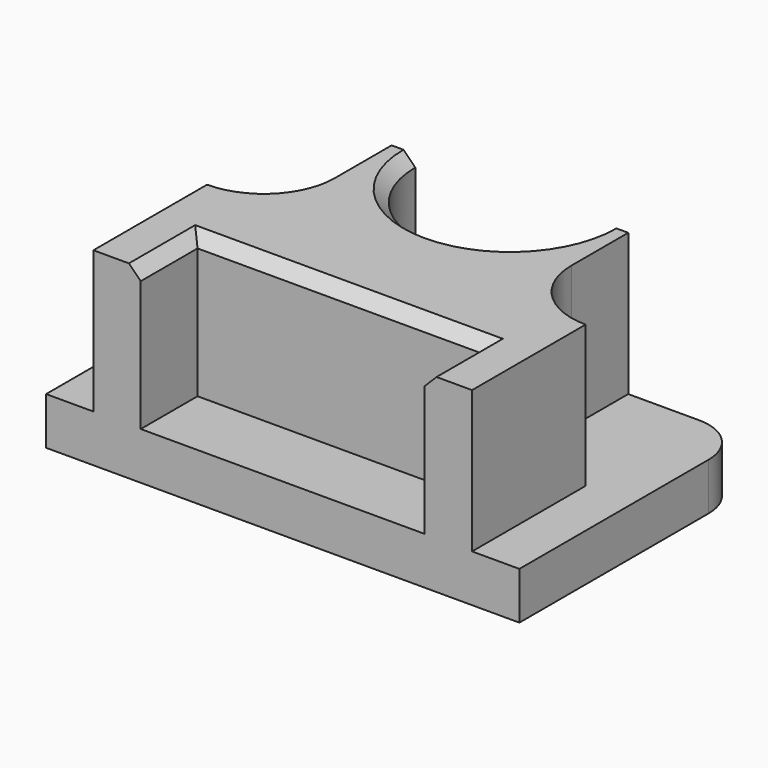
from build123d import *

# Parameters (mm, degrees)
F0_W     = 63.5
F0_H     = 38.1
F1_DEPTH = 6.35
F3_DEPTH = 19.05
F4_DEPTH = 25.4
F5_SIZE  = 1.5875
F7_DEPTH = 25.4
F9_DEPTH = 25.4


with BuildPart() as f1:
    # F0 (on Top) → F1 (new body)
    with BuildSketch(Plane.XY):
        with Locations((31.75, -19.05)):
            Rectangle(F0_W, F0_H)
    extrude(amount=F1_DEPTH)

    # F2 (on face) → F3 (join)
    with BuildSketch(Plane.XY.offset(6.35)):
        with BuildLine():
            Line((6.35, -19.05), (6.35, -38.1))
            Line((6.35, -38.1), (12.7, -38.1))
            Line((12.7, -38.1), (12.7, -28.575))
            Line((12.7, -28.575), (50.8, -28.575))
            Line((50.8, -28.575), (50.8, -38.1))
            Line((50.8, -38.1), (57.15, -38.1))
            Line((57.15, -38.1), (57.15, -19.05))
            ThreePointArc((57.15, -19.05), (50.4148079092, -16.2601920908), (47.625, -9.525))
            Line((47.625, -9.525), (47.625, 0))
            Line((47.625, 0), (44.45, 0))
            ThreePointArc((44.45, 0), (31.75, -12.7), (19.05, 0))
            Line((19.05, 0), (15.875, 0))
            Line((15.875, 0), (15.875, -9.525))
            ThreePointArc((15.875, -9.525), (13.0851920908, -16.2601920908), (6.35, -19.05))
        make_face()
    extrude(amount=F3_DEPTH)

    # F4 (cut): a face of the model
    f4_faces = [f1.faces().sort_by_distance(p)[0] for p in [
        (31.75, -5.390047406, 6.35),
    ]]
    extrude(f4_faces, amount=-F4_DEPTH, mode=Mode.SUBTRACT)

    # F5
    f5_edges = [f1.edges().sort_by_distance(p)[0] for p in [
        (12.7, -33.3375, 25.4),
        (31.75, -28.575, 25.4),
        (50.8, -33.3375, 25.4),
        (31.75, -12.7, 25.4),
    ]]
    chamfer(f5_edges, length=F5_SIZE)

    # F6 (on face) → F7 (cut)
    with BuildSketch(Plane.XY.offset(6.35)):
        with BuildLine():
            Line((6.35, 0), (0, 0))
            Line((0, 0), (0, -6.35))
            ThreePointArc((0, -6.35), (1.8598719395, -1.8598719395), (6.35, 0))
        make_face()
    extrude(amount=-F7_DEPTH, mode=Mode.SUBTRACT)

    # F8 (on face) → F9 (cut)
    with BuildSketch(Plane.XY.offset(6.35)):
        with BuildLine():
            Line((63.5, -6.35), (63.5, 0))
            Line((63.5, 0), (57.15, 0))
            ThreePointArc((57.15, 0), (61.6401280605, -1.8598719395), (63.5, -6.35))
        make_face()
    extrude(amount=-F9_DEPTH, mode=Mode.SUBTRACT)


solid = f1.part
